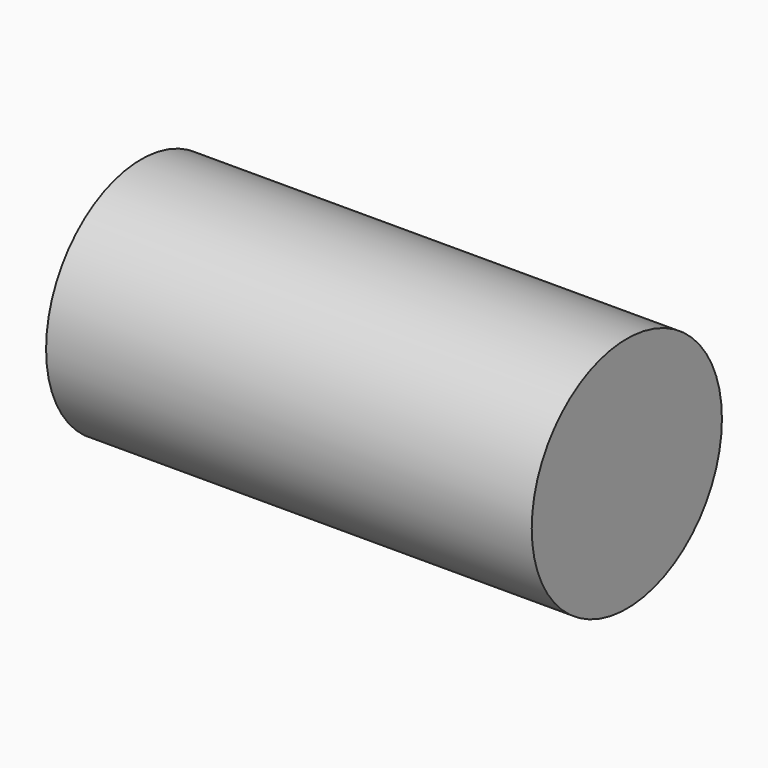
from build123d import *

# Parameters (mm, degrees)
F1_R     = 9.4077470098
F2_DEPTH = 91.694
F0_R     = 22.4429680304


with BuildPart() as f2:
    # F1 (on face) → F2 (new body)
    with BuildSketch(Plane.YZ):
        with Locations((-27.44849585, 36.8711613119)):
            Circle(F1_R)
    extrude(amount=-F2_DEPTH)


with BuildPart() as f2b:
    # F0 (on Right) → F2, piece 2 (new body)
    with BuildSketch(Plane.YZ):
        with Locations((-27.5721251965, 36.4355072379)):
            Circle(F0_R)
    extrude(amount=-F2_DEPTH)


solid = Compound([f2.part, f2b.part])
